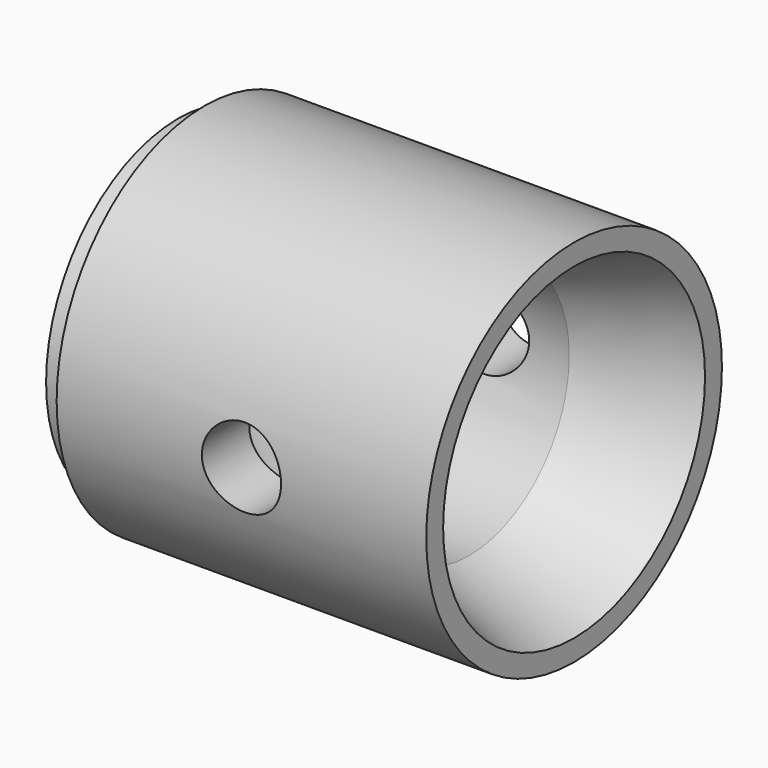
from build123d import *

# Parameters (mm, degrees)
F2_R     = 1.5
F3_DEPTH = 12.5


with BuildPart() as f1:
    # F0 (on Front) → F1 (revolve)
    with BuildSketch(Plane.XZ):
        Polygon((1.145912, 0), (0, 0), (0, -6.25), (1, -6.25), (1, -7), (15, -7), (15, -6.2), (11.016158, -4.75), (4, -4.75), align=None)
    revolve(axis=Axis((0.572956, 0, 0), (-1, 0, 0)))

    # F2 (on Front) → F3 (cut, symmetric)
    with BuildSketch(Plane.XZ):
        with Locations((8, 0)):
            Circle(F2_R)
    extrude(amount=F3_DEPTH, both=True, mode=Mode.SUBTRACT)


solid = f1.part
